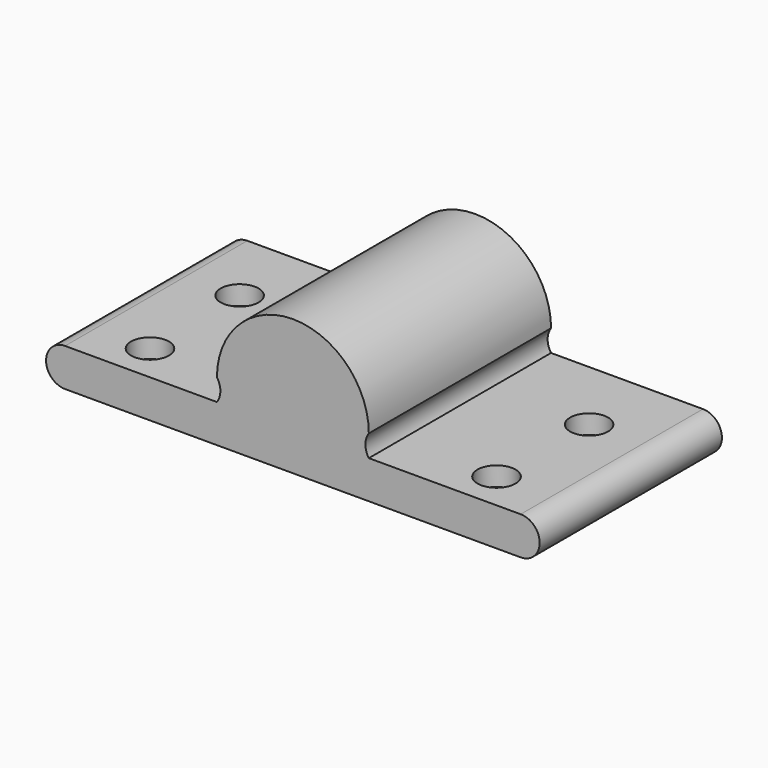
from build123d import *

# Parameters (mm, degrees)
F0_R       = 25.4
F1_DEPTH   = 152.4
F2_R       = 12.7
F1_FACE1_W = 304.8
F1_FACE1_H = 152.4
F3_DEPTH   = 12.7


with BuildPart() as f1:
    # F0 (on Front) → F1 (new body)
    with BuildSketch(Plane.XZ):
        with BuildLine():
            ThreePointArc((-152.4, -14.5780997561), (-165.1, -27.2780997561), (-152.4, -39.9780997561))
            Line((-152.4, -39.9780997561), (152.4, -39.9780997561))
            ThreePointArc((152.4, -39.9780997561), (165.1, -27.2780997561), (152.4, -14.5780997561))
            Line((152.4, -14.5780997561), (50.8, -14.5780997561))
            ThreePointArc((50.8, -14.5780997561), (48.4999880709, -7.2890498781), (50.8, 0))
            ThreePointArc((50.8, 0), (0, 50.8), (-50.8, 0))
            ThreePointArc((-50.8, 0), (-48.4999880709, -7.2890498781), (-50.8, -14.5780997561))
            Line((-50.8, -14.5780997561), (-152.4, -14.5780997561))
        make_face()
        Circle(F0_R, mode=Mode.SUBTRACT)
        Circle(F0_R)
    extrude(amount=F1_DEPTH)

    # F2 (on face) + F1_face1 (on face) → F3 (cut)
    with BuildSketch(Plane.XY.offset(-14.5780997561)):
        with Locations((115.9101505241, -127)):
            Circle(F2_R)
        with Locations((116.8997645463, -50.8)):
            Circle(F2_R)
        with Locations((-115.9101505241, -127)):
            Circle(F2_R)
        with Locations((-116.8997645463, -50.8)):
            Circle(F2_R)
    with BuildSketch(Plane(origin=(0, -76.2, -39.9780997561), x_dir=(1, 0, 0), z_dir=(0, 0, -1))):
        Rectangle(F1_FACE1_W, F1_FACE1_H)
    extrude(amount=-F3_DEPTH, dir=(0, 0, 1), mode=Mode.SUBTRACT)


solid = f1.part
